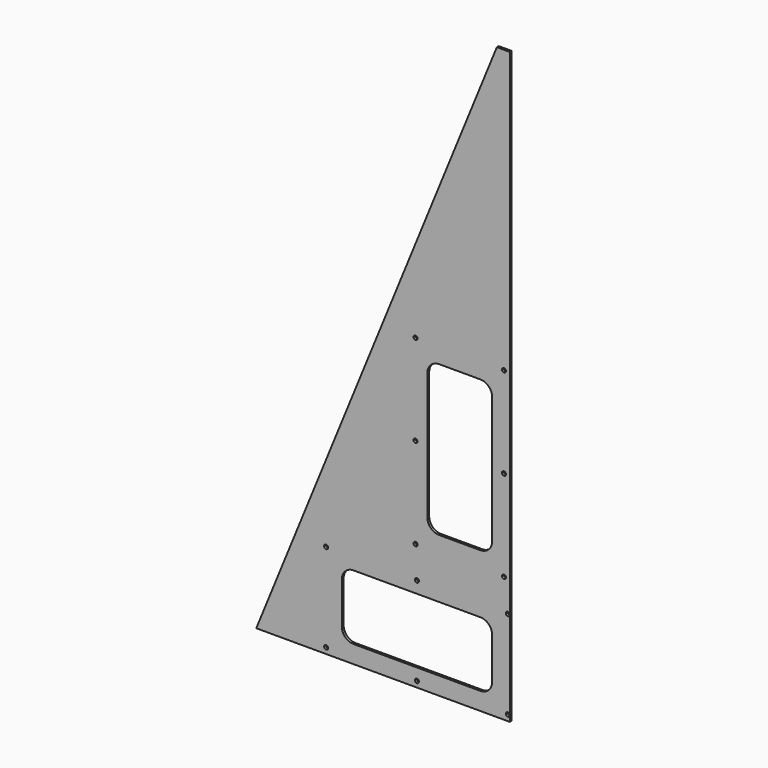
from build123d import *

# Parameters (mm, degrees)
F1_DEPTH = 2.54
F3_D     = 4.318


with BuildPart() as f1:
    # F0 (on Front) → F1 (new body)
    with BuildSketch(Plane.XZ):
        Polygon((-273.05, 0), (0, 0), (0, 635), (-14.0198087095, 635), align=None)
        with BuildLine():
            ThreePointArc((-168.275, 19.05), (-177.2552561211, 22.7697438789), (-180.975, 31.75))
            Line((-180.975, 31.75), (-180.975, 76.2))
            ThreePointArc((-180.975, 76.2), (-177.2552561211, 85.1802561211), (-168.275, 88.9))
            Line((-168.275, 88.9), (-31.75, 88.9))
            ThreePointArc((-31.75, 88.9), (-22.7697438789, 85.1802561211), (-19.05, 76.2))
            Line((-19.05, 76.2), (-19.05, 31.75))
            ThreePointArc((-19.05, 31.75), (-22.7697438789, 22.7697438789), (-31.75, 19.05))
            Line((-31.75, 19.05), (-168.275, 19.05))
        make_face(mode=Mode.SUBTRACT)
        with BuildLine():
            ThreePointArc((-76.2, 152.4), (-85.1802561211, 156.1197438789), (-88.9, 165.1))
            Line((-88.9, 165.1), (-88.9, 301.625))
            ThreePointArc((-88.9, 301.625), (-85.1802561211, 310.6052561211), (-76.2, 314.325))
            Line((-76.2, 314.325), (-31.75, 314.325))
            ThreePointArc((-31.75, 314.325), (-22.7697438789, 310.6052561211), (-19.05, 301.625))
            Line((-19.05, 301.625), (-19.05, 165.1))
            ThreePointArc((-19.05, 165.1), (-22.7697438789, 156.1197438789), (-31.75, 152.4))
            Line((-31.75, 152.4), (-76.2, 152.4))
        make_face(mode=Mode.SUBTRACT)
    extrude(amount=F1_DEPTH)

    # F3 (through all)
    with Locations(Plane.XZ.offset(2.54)):
        with Locations((-101.6, 331.1525), (-6.35, 331.1525), (-6.35, 233.3625), (-101.6, 233.3625), (-101.6, 135.5725), (-6.35, 135.5725), (-197.8025, 101.6), (-197.8025, 6.35), (-100.0125, 6.35), (-100.0125, 101.6), (-2.2225, 101.6), (-2.2225, 6.35)):
            Hole(F3_D / 2)


solid = f1.part
